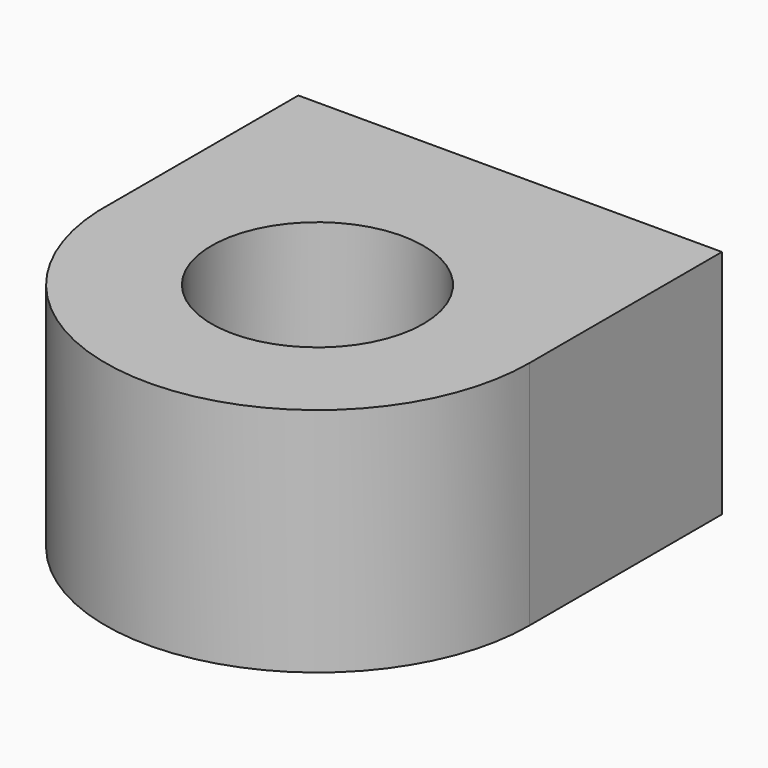
from build123d import *

# Parameters (mm, degrees)
F0_R     = 2.75
F1_DEPTH = 6


with BuildPart() as f1:
    # F0 (on Top) → F1 (new body)
    with BuildSketch(Plane.XY):
        with BuildLine():
            Line((6.000003, -2.478286), (-4.999997, -2.478286))
            Line((-4.999997, -2.478286), (-4.999997, -8.478286))
            ThreePointArc((-4.999997, -8.478286), (0.37213, -14.229707), (6.000003, -8.728286))
            Line((6.000003, -8.728286), (6.000003, -2.478286))
        make_face()
        with Locations((0.497162, -8.728286)):
            Circle(F0_R, mode=Mode.SUBTRACT)
    extrude(amount=F1_DEPTH)


solid = f1.part
